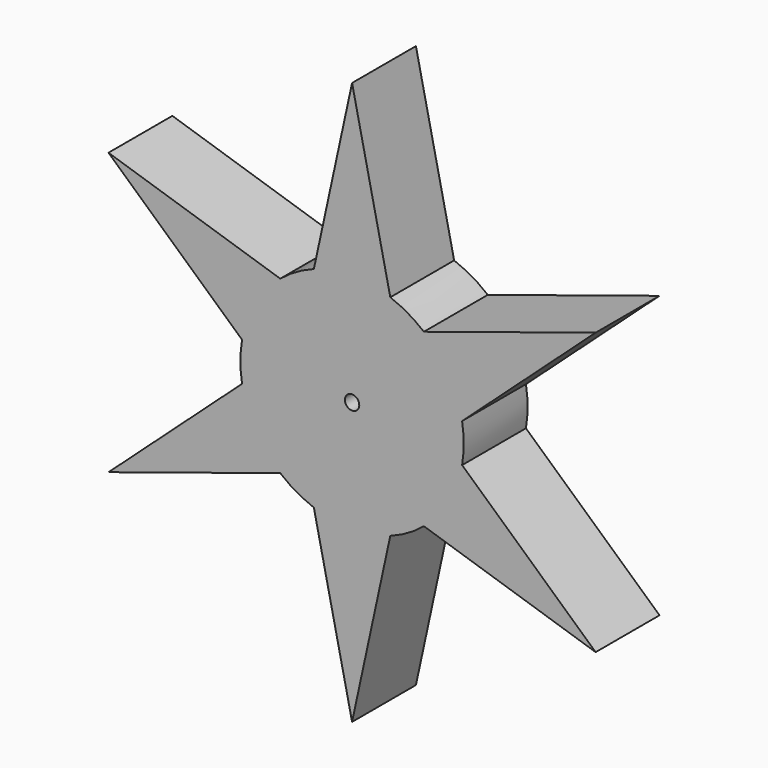
from build123d import *

# Parameters (mm, degrees)
F0_R     = 0.5715
F1_DEPTH = 6.35


with BuildPart() as f1:
    # F0 (on Front) → F1 (new body)
    with BuildSketch(Plane.XZ):
        with BuildLine():
            Line((0, 22.379066), (-3.040559, 8.353867))
            ThreePointArc((-3.040559, 8.353867), (-4.445, 7.698966), (-5.714382, 6.810135))
            Line((-5.714382, 6.810135), (-19.38084, 11.189533))
            Line((-19.38084, 11.189533), (-8.754941, 1.543732))
            ThreePointArc((-8.754941, 1.543732), (-8.89, 0), (-8.754941, -1.543732))
            Line((-8.754941, -1.543732), (-19.38084, -11.189533))
            Line((-19.38084, -11.189533), (-5.714382, -6.810135))
            ThreePointArc((-5.714382, -6.810135), (-4.445, -7.698966), (-3.040559, -8.353867))
            Line((-3.040559, -8.353867), (0, -22.379066))
            Line((0, -22.379066), (3.040559, -8.353867))
            ThreePointArc((3.040559, -8.353867), (4.445, -7.698966), (5.714382, -6.810135))
            Line((5.714382, -6.810135), (19.38084, -11.189533))
            Line((19.38084, -11.189533), (8.754941, -1.543732))
            ThreePointArc((8.754941, -1.543732), (8.89, 0), (8.754941, 1.543732))
            Line((8.754941, 1.543732), (19.38084, 11.189533))
            Line((19.38084, 11.189533), (5.714382, 6.810135))
            ThreePointArc((5.714382, 6.810135), (4.445, 7.698966), (3.040559, 8.353867))
            Line((3.040559, 8.353867), (0, 22.379066))
        make_face()
        Circle(F0_R, mode=Mode.SUBTRACT)
    extrude(amount=F1_DEPTH)


solid = f1.part
